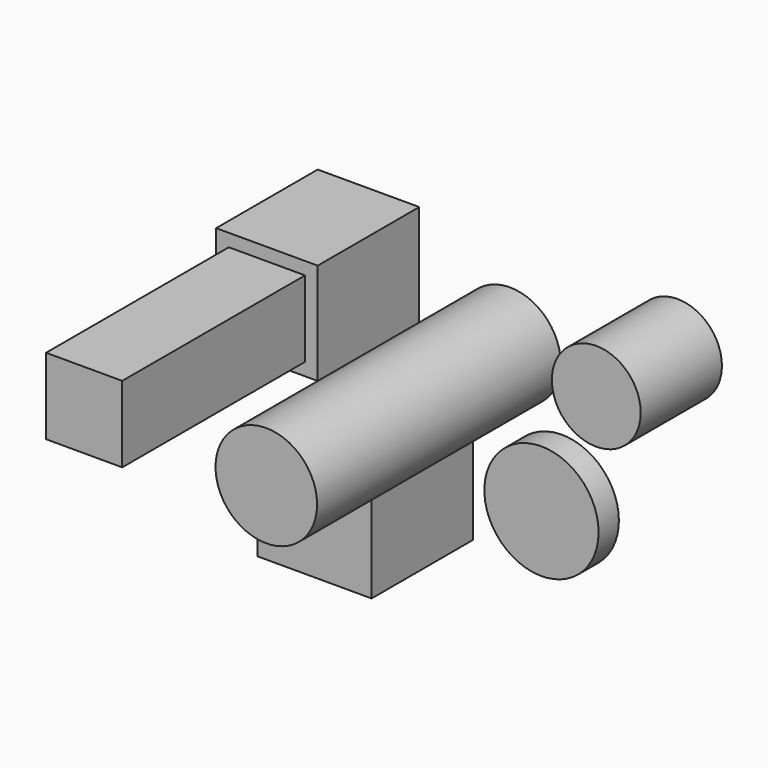
from build123d import *

# Parameters (mm, degrees)
F0_R     = 25.4
F1_DEPTH = 152.4
F0_R_2   = 28.575
F2_DEPTH = 12.7
F0_W     = 57.15
F0_H     = 57.15
F3_DEPTH = 63.5
F0_W_2   = 38.1
F0_H_2   = 38.1
F0_R_3   = 6.35
F4_DEPTH = 177.8
F0_W_3   = 50.8
F0_H_3   = 50.8
F5_DEPTH = 63.5
F6_DEPTH = 19.05
F0_R_4   = 22.225
F7_DEPTH = 50.8


with BuildPart() as f1:
    # F0 (on Front) → F1 (new body)
    with BuildSketch(Plane.XZ):
        with Locations((11.338911, 33.633385)):
            Circle(F0_R)
    extrude(amount=F1_DEPTH)


with BuildPart() as f2:
    # F0 (on Front) → F2 (new body)
    with BuildSketch(Plane.XZ):
        with Locations((37.235141, -25.984231)):
            Circle(F0_R_2)
    extrude(amount=F2_DEPTH)


with BuildPart() as f3:
    # F0 (on Front) → F3 (new body)
    with BuildSketch(Plane.XZ):
        with Locations((-35.676989, -29.606901)):
            Rectangle(F0_W, F0_H)
    extrude(amount=F3_DEPTH)


with BuildPart() as f4:
    # F0 (on Front) → F4 (new body)
    with BuildSketch(Plane.XZ):
        with Locations((-59.465182, 54.235836)):
            Rectangle(F0_W_2, F0_H_2)
        with Locations((-59.161171, 54.813579)):
            Circle(F0_R_3, mode=Mode.SUBTRACT)
        with Locations((-59.161171, 54.813579)):
            Circle(F0_R_3)
    extrude(amount=F4_DEPTH)

    # F0 (on Front) → F6 (join)
    with BuildSketch(Plane.XZ):
        with Locations((-59.161171, 54.813579)):
            Circle(F0_R_3)
    extrude(amount=-F6_DEPTH)


with BuildPart() as f5:
    # F0 (on Front) → F5 (new body)
    with BuildSketch(Plane.XZ):
        with Locations((-59.465182, 54.235836)):
            Rectangle(F0_W_3, F0_H_3)
        with Locations((-59.465182, 54.235836)):
            Rectangle(F0_W_2, F0_H_2, mode=Mode.SUBTRACT)
    extrude(amount=F5_DEPTH)


with BuildPart() as f7:
    # F0 (on Front) → F7 (new body)
    with BuildSketch(Plane.XZ):
        with Locations((95.13209, 58.944352)):
            Circle(F0_R_4)
    extrude(amount=F7_DEPTH)


solid = Compound([f1.part, f2.part, f3.part, f4.part, f5.part, f7.part])
